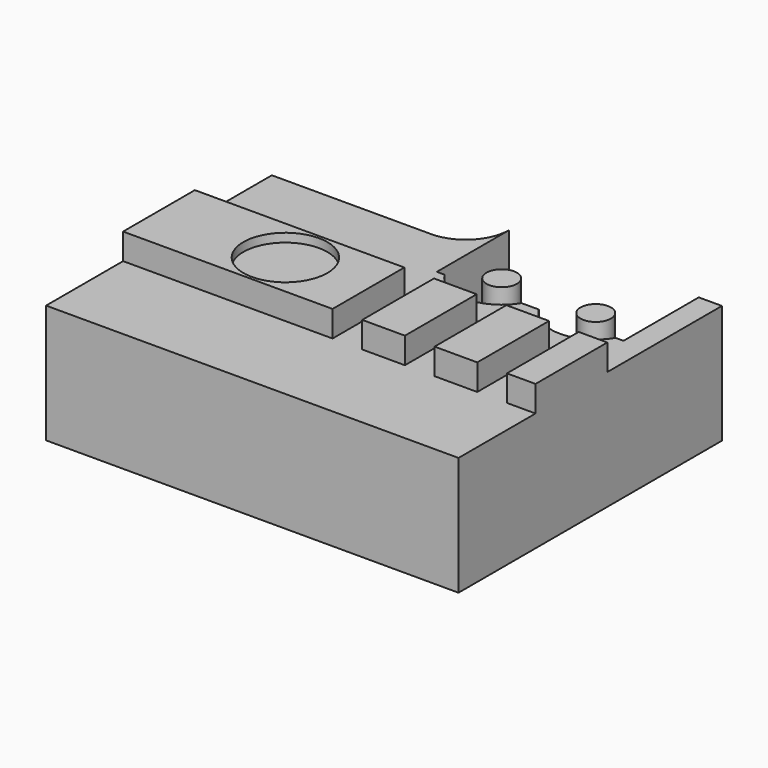
from build123d import *

# Parameters (mm, degrees)
PAD004_DEPTH    = 8.2
SKETCH014_W     = 28.5
SKETCH014_H     = 6.2
PAD005_DEPTH    = 1.8
SKETCH015_R     = 2.9
POCKET004_DEPTH = 0.6
SKETCH016_W     = 2.05
SKETCH016_H     = 6.2
POCKET005_DEPTH = 1.8
SKETCH018_R     = 1.05
POCKET007_DEPTH = 6


with BuildPart() as part:
    # Sketch013 → Pad004 (new body)
    with BuildSketch(Plane.XY):
        with BuildLine():
            Line((0, 0), (28.5, 0))
            Line((28.5, 0), (28.5, 22.75))
            Line((28.5, 22.75), (14, 22.75))
            Line((14, 22.75), (14, 22.5))
            ThreePointArc((11, 19.5), (13.12132, 20.37868), (14, 22.5))
            Line((11, 19.5), (0, 19.5))
            Line((0, 19.5), (0, 0))
        make_face()
    extrude(amount=PAD004_DEPTH)

    # Sketch014 (on Face9 of Pad004) → Pad005 (join)
    with BuildSketch(Plane.XY.offset(8.2)):
        with Locations((14.25, 9.75)):
            Rectangle(SKETCH014_W, SKETCH014_H)
    extrude(amount=PAD005_DEPTH)

    # Sketch015 (on Face11 of Pad005) → Pocket004 (cut)
    with BuildSketch(Plane.XY.offset(10)):
        with Locations((8.735056, 9.75)):
            Circle(SKETCH015_R)
    extrude(amount=-POCKET004_DEPTH, mode=Mode.SUBTRACT)

    # Sketch016 (on Face10 of Pocket004) → Pocket005 (cut)
    with BuildSketch(Plane.XY.offset(10)):
        with Locations((15.5, 9.75)):
            Rectangle(SKETCH016_W, SKETCH016_H)
        Polygon((21.525, 12.85), (21.525, 6.65), (19.475, 6.65), (19.475, 12.85), (20.5, 12.85), align=None)
        with Locations((25.5, 9.75)):
            Rectangle(SKETCH016_W, SKETCH016_H)
    extrude(amount=-POCKET005_DEPTH, mode=Mode.SUBTRACT)

    # Sketch018 (on Face19 of Clone001) → Pocket007 (cut)
    with BuildSketch(Plane.XY.offset(8.2)):
        with BuildLine():
            Line((14, 22.75), (26.9, 22.75))
            Line((26.9, 22.75), (26.9, 16.25))
            Line((26.355184, 16.25), (26.9, 16.25))
            ThreePointArc((21.044816, 16.25), (23.7, 14.75), (26.355184, 16.25))
            Line((20.45, 16.25), (21.044816, 16.25))
            Line((19.855184, 16.25), (20.45, 16.25))
            ThreePointArc((14.544816, 16.25), (17.2, 14.75), (19.855184, 16.25))
            Line((14, 16.25), (14.544816, 16.25))
            Line((14, 16.25), (14, 22.75))
        make_face()
        with Locations((17.2, 17.85)):
            Circle(SKETCH018_R, mode=Mode.SUBTRACT)
        with Locations((23.7, 17.85)):
            Circle(SKETCH018_R, mode=Mode.SUBTRACT)
    extrude(amount=-POCKET007_DEPTH, mode=Mode.SUBTRACT)


solid = part.part
